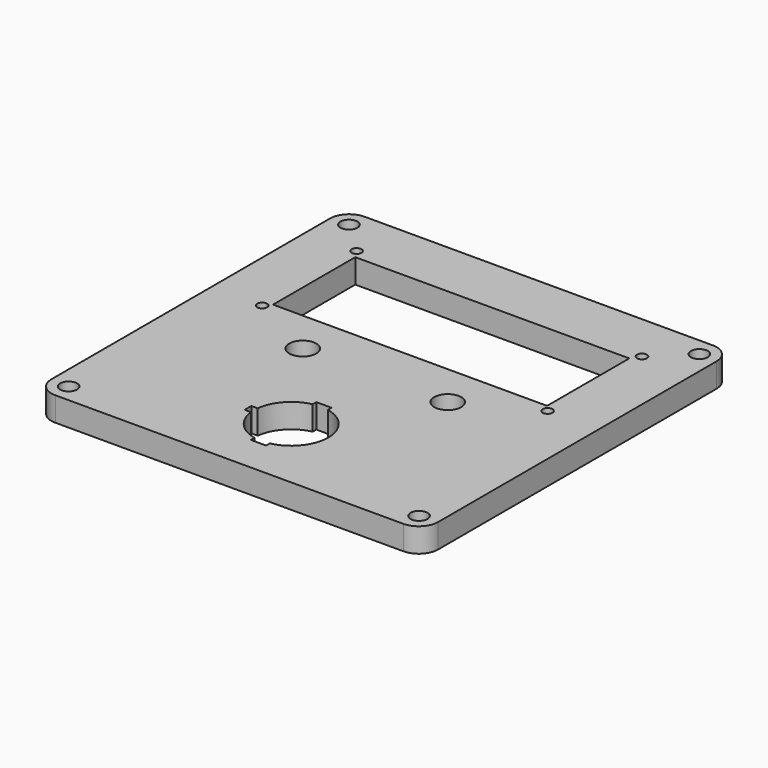
from build123d import *

# Parameters (mm, degrees)
F0_R     = 2.2225
F0_R_2   = 3.556
F0_R_3   = 1.3
F0_W     = 72
F0_H     = 27
F1_DEPTH = 6.35


with BuildPart() as f1:
    # F0 (on Top) → F1 (new body)
    with BuildSketch(Plane.XY):
        with BuildLine():
            Line((45.72, 50.8), (-45.72, 50.8))
            ThreePointArc((-45.72, 50.8), (-49.312102, 49.312102), (-50.8, 45.72))
            Line((-50.8, 45.72), (-50.8, -45.72))
            ThreePointArc((-50.8, -45.72), (-49.312102, -49.312102), (-45.72, -50.8))
            Line((-45.72, -50.8), (45.72, -50.8))
            ThreePointArc((45.72, -50.8), (49.312102, -49.312102), (50.8, -45.72))
            Line((50.8, -45.72), (50.8, 45.72))
            ThreePointArc((50.8, 45.72), (49.312102, 49.312102), (45.72, 50.8))
        make_face()
        with Locations((-46.0375, -46.0375)):
            Circle(F0_R, mode=Mode.SUBTRACT)
        with BuildLine():
            ThreePointArc((-2, -40.022667), (-7.209059, -37.044447), (-9.68775, -31.58))
            Line((-9.68775, -31.58), (-11.35, -31.58))
            Line((-11.35, -31.58), (-11.35, -30.48))
            Line((-11.35, -30.48), (-11.35, -29.38))
            Line((-11.35, -29.38), (-9.68775, -29.38))
            ThreePointArc((-9.68775, -29.38), (-7.209059, -23.915553), (-2, -20.937333))
            Line((-2, -20.937333), (-2, -19.73))
            Line((-2, -19.73), (2, -19.73))
            Line((2, -19.73), (2, -20.937333))
            ThreePointArc((2, -20.937333), (9.75, -30.48), (2, -40.022667))
            Line((2, -40.022667), (2, -41.23))
            Line((2, -41.23), (-2, -41.23))
            Line((-2, -41.23), (-2, -40.022667))
        make_face(mode=Mode.SUBTRACT)
        with Locations((-19.05, -2.87)):
            Circle(F0_R_2, mode=Mode.SUBTRACT)
        with Locations((46.0375, -46.0375)):
            Circle(F0_R, mode=Mode.SUBTRACT)
        with Locations((19.05, -2.87)):
            Circle(F0_R_2, mode=Mode.SUBTRACT)
        with Locations((-37.5, 6.86)):
            Circle(F0_R_3, mode=Mode.SUBTRACT)
        with Locations((0, 22.06)):
            Rectangle(F0_W, F0_H, mode=Mode.SUBTRACT)
        with Locations((-37.5, 37.86)):
            Circle(F0_R_3, mode=Mode.SUBTRACT)
        with Locations((-46.0375, 46.0375)):
            Circle(F0_R, mode=Mode.SUBTRACT)
        with Locations((37.5, 6.86)):
            Circle(F0_R_3, mode=Mode.SUBTRACT)
        with Locations((37.5, 37.86)):
            Circle(F0_R_3, mode=Mode.SUBTRACT)
        with Locations((46.0375, 46.0375)):
            Circle(F0_R, mode=Mode.SUBTRACT)
    extrude(amount=F1_DEPTH)


solid = f1.part
